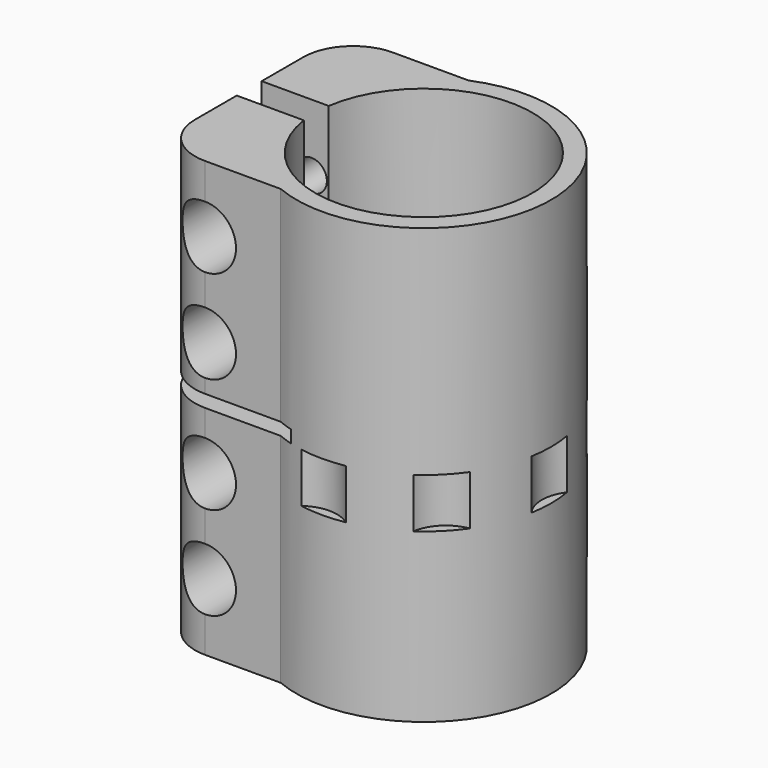
from build123d import *

# Parameters (mm, degrees)
F1_DEPTH       = 35
F3_D           = 5
F3_START       = 1.7550021
F3_CBORE_D     = 10
F3_CBORE_DEPTH = 8
F4_W           = 22.4840755326
F4_H           = 2
F5_DEPTH       = 25
F6_R           = 6
F7_DEPTH       = 8


with BuildPart() as f1:
    # F0 (on Top) → F1 (new body, symmetric)
    with BuildSketch(Plane.XY):
        with BuildLine():
            Line((-20.1192642082, -18.9086026559), (-7.9192642082, -18.9086026559))
            ThreePointArc((-7.9192642082, -18.9086026559), (20.5, 0), (-7.9192642082, 18.9086026559))
            Line((-7.9192642082, 18.9086026559), (-20.1192642082, 18.9086026559))
            ThreePointArc((-20.1192642082, 18.9086026559), (-25.7761184577, 16.5654569054), (-28.1192642082, 10.9086026559))
            Line((-28.1192642082, 10.9086026559), (-28.1192642082, 2.5086026559))
            Line((-28.1192642082, 2.5086026559), (-17.3192642082, 2.5086026559))
            ThreePointArc((-17.3192642082, 2.5086026559), (17.5, 0), (-17.3192642082, -2.5086026559))
            Line((-17.3192642082, -2.5086026559), (-28.1192642082, -2.5086026559))
            Line((-28.1192642082, -2.5086026559), (-28.1192642082, -10.9086026559))
            ThreePointArc((-28.1192642082, -10.9086026559), (-25.7761184577, -16.5654569054), (-20.1192642082, -18.9086026559))
        make_face()
    extrude(amount=F1_DEPTH, both=True)

    # F3 (through all)
    # its depths count from where the whole tool has entered the part; down to there all is cleared
    with Locations(Plane.XZ.offset(18.9086026559).offset(-F3_START)):
        with Locations((-20.1192642082, -24.25), (-20.1192642082, -9.25), (-20.1192642082, 9.25), (-20.1192642082, 24.25)):
            CounterBoreHole(F3_D / 2, F3_CBORE_D / 2, F3_CBORE_DEPTH)

    # F4 (on Front) → F5 (cut, symmetric)
    with BuildSketch(Plane.XZ):
        with Locations((-16.8772264419, 1)):
            Rectangle(F4_W, F4_H)
    extrude(amount=F5_DEPTH, both=True, mode=Mode.SUBTRACT)

    # F6 (on Top) → F7 (cut)
    with BuildSketch(Plane.XY):
        with Locations((0, -25)):
            Circle(F6_R)
        with Locations((17.6776695297, -17.6776695297)):
            Circle(F6_R)
        with Locations((25, 0)):
            Circle(F6_R)
        with Locations((17.6776695297, 17.6776695297)):
            Circle(F6_R)
        with Locations((0, 25)):
            Circle(F6_R)
    extrude(amount=-F7_DEPTH, mode=Mode.SUBTRACT)


solid = f1.part
